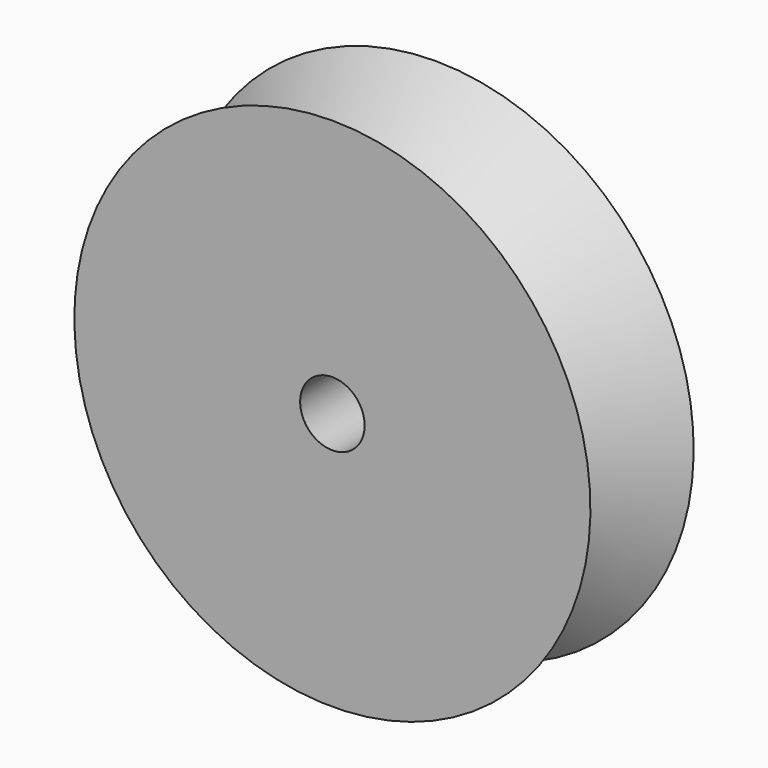
from build123d import *

# Parameters (mm, degrees)
F3_D = 6.35


with BuildPart() as f1:
    # F0 (on Right) → F1 (revolve)
    with BuildSketch(Plane.YZ):
        Polygon((0, 25.4), (0, 0), (12.7, 0), (12.7, 25.4), (6.35, 18.470191), align=None)
    revolve(axis=Axis((0, 6.35, 0), (0, -1, 0)))

    # F3 (through all)
    with Locations(Plane.XZ):
        with Locations((0, 0)):
            Hole(F3_D / 2)


solid = f1.part
